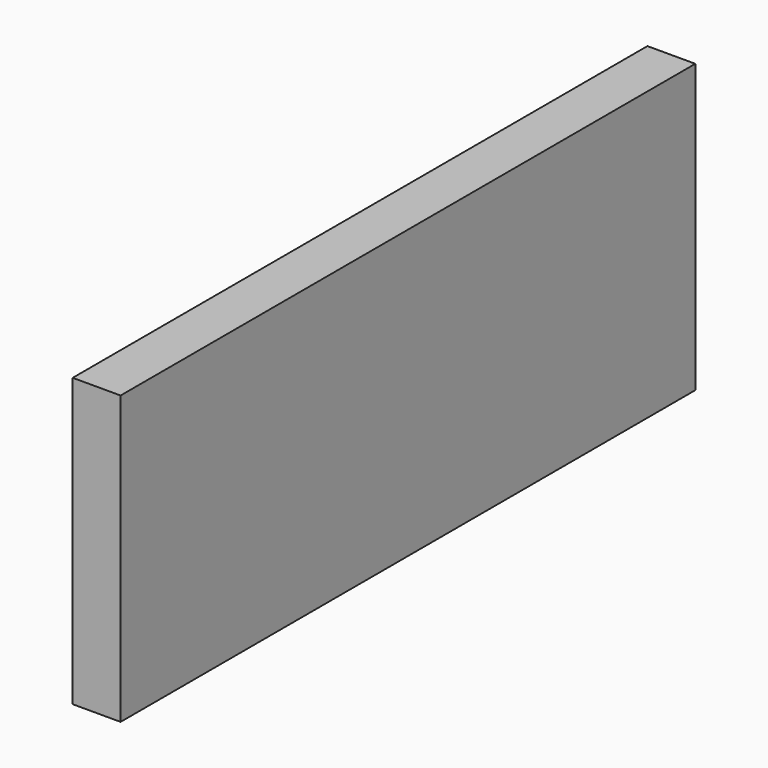
from build123d import *

# Parameters (mm, degrees)
F0_W     = 381
F0_H     = 152.4
F1_DEPTH = 25.4
F3_W     = 381
F3_H     = 152.4
F4_DEPTH = 25.4


with BuildPart() as f1:
    # F0 (on Front) → F1 (new body)
    with BuildSketch(Plane.XZ):
        with Locations((-82.7160514891, -6.6580822694)):
            Rectangle(F0_W, F0_H)
    extrude(amount=F1_DEPTH)


with BuildPart() as f4:
    # F3 (on Right) → F4 (new body)
    with BuildSketch(Plane.YZ):
        with Locations((-190.5, 76.2)):
            Rectangle(F3_W, F3_H)
    extrude(amount=F4_DEPTH)


solid = f4.part
